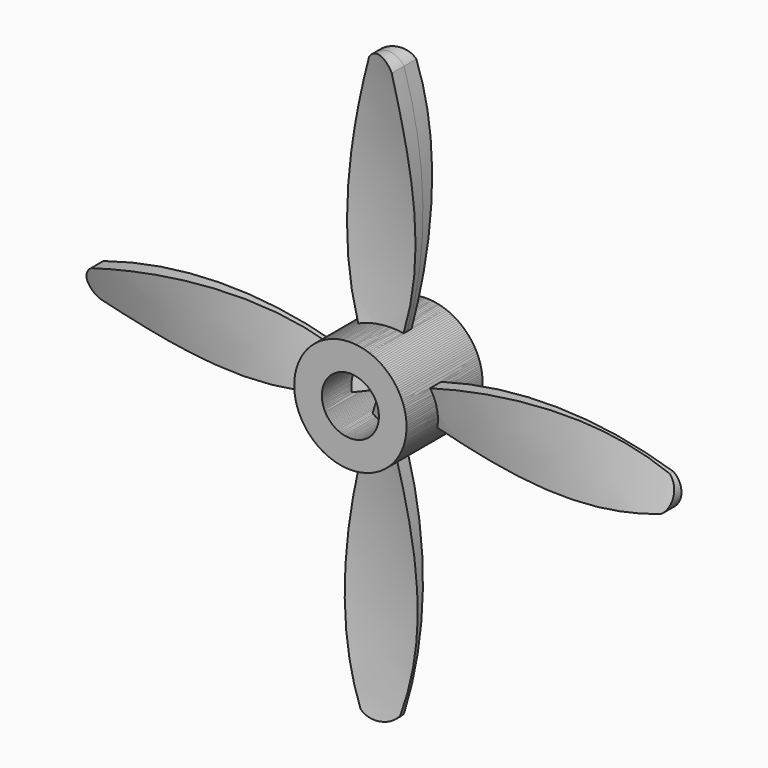
from build123d import *

# Parameters (mm, degrees)
F5_DEPTH = 25
F6_R     = 14.748122
F6_R_2   = 7.5
F7_DEPTH = 12.5
F8_COUNT = 4


with BuildPart() as f3:
    # F1 (on Top) → F3 section 0
    with BuildSketch(Plane.XY):
        Polygon((22.637265, 10.899735), (-24.347366, -6.201272), (-22.637265, -10.899735), (24.347366, 6.201272), align=None)
    # F2 (on offset) → F3 section 1
    with BuildSketch(Plane.XY.offset(77)):
        Polygon((24.347366, -6.201272), (-22.637265, 10.899735), (-24.347366, 6.201272), (22.637265, -10.899735), align=None)
    loft()

    # F4 (on Front) → F5 (intersect)
    with BuildSketch(Plane.XZ):
        with BuildLine():
            ThreePointArc((4.101177, 74.860131), (0, 77), (-4.101177, 74.860131))
            ThreePointArc((-4.101177, 74.860131), (-8.907672, 37.054403), (0, 0))
            ThreePointArc((0, 0), (8.907672, 37.054403), (4.101177, 74.860131))
        make_face()
    extrude(amount=F5_DEPTH, mode=Mode.INTERSECT)

    # F6 (on Front) → F7 (join, symmetric)
    with BuildSketch(Plane.XZ):
        Circle(F6_R)
        Circle(F6_R_2, mode=Mode.SUBTRACT)
    extrude(amount=F7_DEPTH, both=True)


with BuildPart() as f8_1:
    # F8: instance of F3
    add(f3.part.rotate(Axis((0, -12.5, 0), (0, -1, 0)), 1 * 360 / F8_COUNT))


with BuildPart() as f8_2:
    # F8: instance of F3
    add(f3.part.rotate(Axis((0, -12.5, 0), (0, -1, 0)), 2 * 360 / F8_COUNT))


with BuildPart() as f8_3:
    # F8: instance of F3
    add(f3.part.rotate(Axis((0, -12.5, 0), (0, -1, 0)), 3 * 360 / F8_COUNT))


with BuildPart() as f9_1:
    # F9: instance of F3
    add(f3.part.mirror(Plane.XZ))


solid = Compound([f3.part, f8_1.part, f8_2.part, f8_3.part, f9_1.part])
